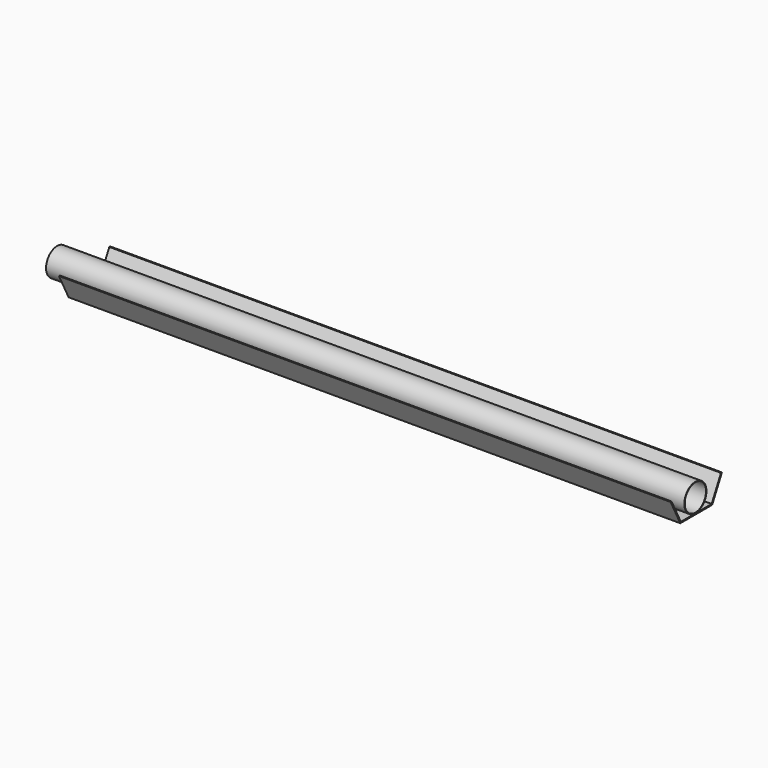
from build123d import *

# Parameters (mm, degrees)
F1_DEPTH      = 600
F1_DEPTH_BACK = 550
F2_R          = 26
F2_R_2        = 25
F3_DEPTH      = 600


with BuildPart() as f1:
    # F0 (on Right) → F1 (new body, two sides)
    with BuildSketch(Plane.YZ) as f1_sk:
        Polygon((-58.252042, 16.136102), (-35.441691, -28.357581), (39.558309, -28.357581), (62.36866, 16.136102), (60.12115, 16.136102), (38.336129, -26.357581), (-34.219511, -26.357581), (-56.004532, 16.136102), align=None)
    extrude(amount=F1_DEPTH)
    extrude(f1_sk.sketch, amount=-F1_DEPTH_BACK)


with BuildPart() as f3:
    # F2 (on Right) → F3 (new body, symmetric)
    with BuildSketch(Plane.YZ):
        Circle(F2_R)
        Circle(F2_R_2, mode=Mode.SUBTRACT)
    extrude(amount=F3_DEPTH, both=True)


solid = Compound([f1.part, f3.part])
